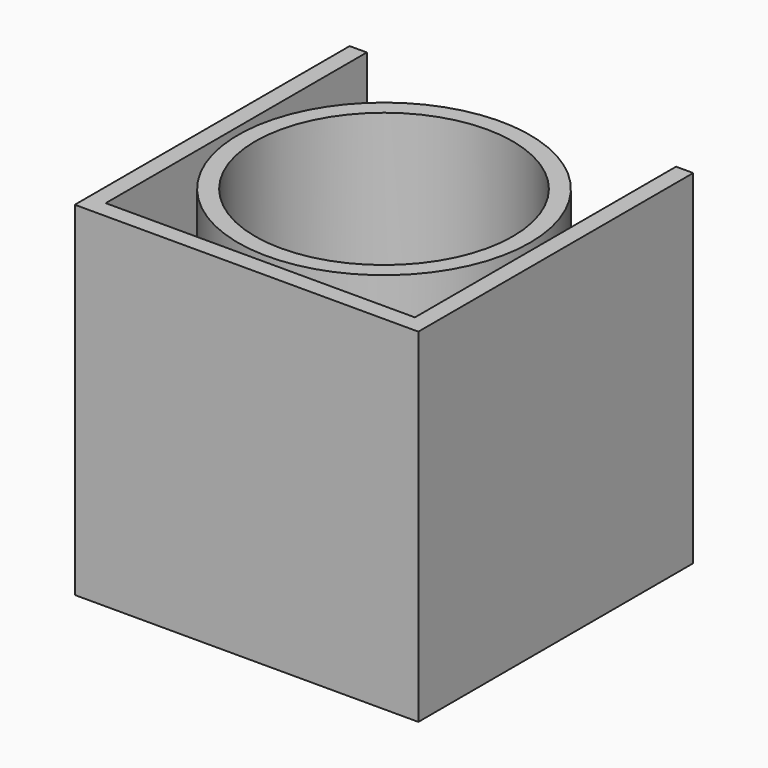
from build123d import *

# Parameters (mm, degrees)
F0_W     = 50
F0_H     = 50
F1_DEPTH = 50
F2_R     = 18.7425
F3_DEPTH = 50
F4_T     = -2.5


with BuildPart() as f1:
    # F0 (on Top) → F1 (new body)
    with BuildSketch(Plane.XY):
        Rectangle(F0_W, F0_H)
    extrude(amount=F1_DEPTH)

    # F2 (on face) → F3 (cut)
    with BuildSketch(Plane.XY.offset(50)):
        Circle(F2_R)
    extrude(amount=-F3_DEPTH, mode=Mode.SUBTRACT)

    # F4
    f4_openings = [f1.faces().sort_by_distance(p)[0] for p in [
        (24.292893, 0, 50),
        (0, 25, 25),
    ]]
    offset(amount=F4_T, openings=f4_openings)


solid = f1.part
